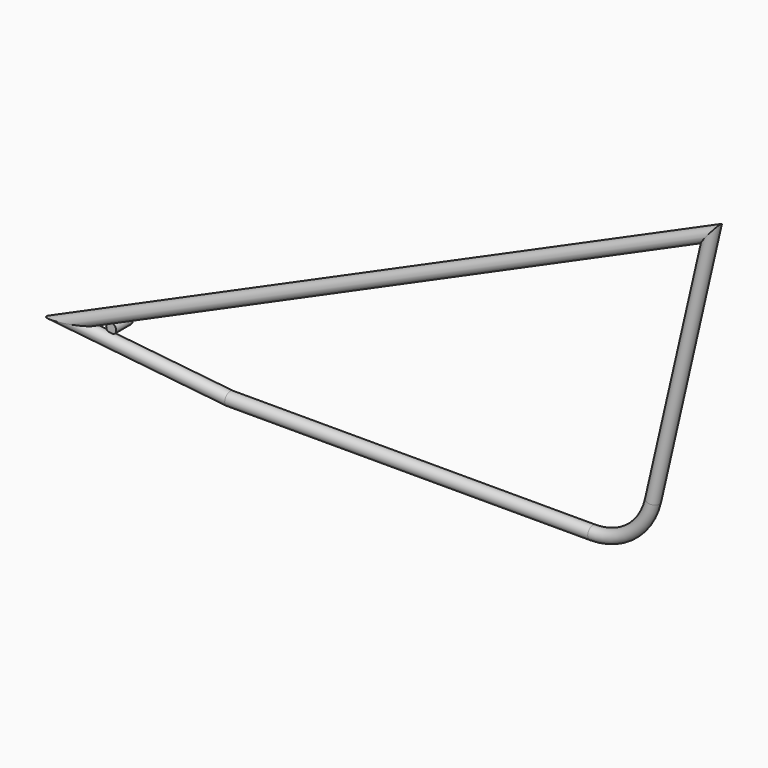
from build123d import *

# Parameters (mm, degrees)
F1_R     = 15.875
F3_R     = 12.2021545383
F4_DEPTH = 50.8


with BuildPart() as f2:
    # F2: sweep along a path in F0
    with BuildLine(Plane.XZ) as f2_path:
        Line((-344.3413384318, -41.1043575529), (550.2936645415, -41.1043575529))
        ThreePointArc((550.2936645415, -41.1043575529), (645.2322257553, -7.9202524438), (698.826283108, 77.1808183703))
        Line((698.826283108, 77.1808183703), (842.452537594, 702.5155299205))
        Line((842.452537594, 702.5155299205), (-735.4231768463, 0))
        Line((-735.4231768463, 0), (-344.3413384318, -41.1043575529))
    # F1 (on Right) → F2 (sweep)
    with BuildSketch(Plane.YZ):
        with Locations((0, -41.1043575529)):
            Circle(F1_R)
    sweep(path=f2_path.line, transition=Transition.RIGHT)

    # F3 (on Front) → F4 (join)
    with BuildSketch(Plane.XZ):
        with Locations((-636.8260383606, 15.446998179)):
            Circle(F3_R)
    extrude(amount=-F4_DEPTH)


solid = f2.part
